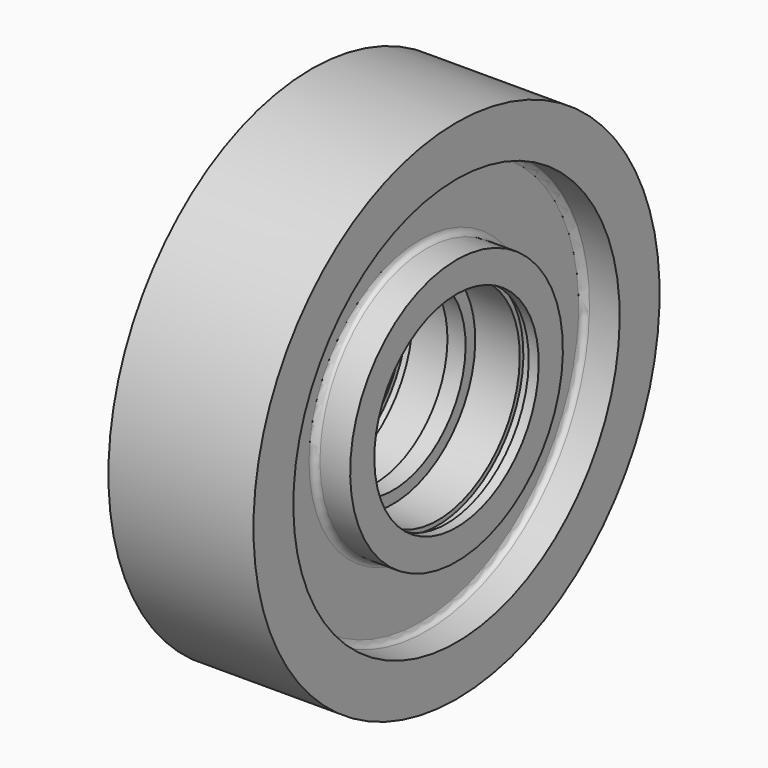
from build123d import *


with BuildPart() as f1:
    # F0 (on Front) → F1 (revolve)
    with BuildSketch(Plane.XZ):
        with BuildLine():
            Line((0, 30), (0, 84))
            Line((0, 84), (-24, 84))
            Line((-24, 84), (-24, 67.5))
            Line((-24, 67.5), (-14, 67.5))
            ThreePointArc((-14, 67.5), (-12.585786, 66.914214), (-12, 65.5))
            Line((-12, 65.5), (-12, 46))
            ThreePointArc((-12, 46), (-12.585786, 44.585786), (-14, 44))
            Line((-14, 44), (-24, 44))
            Line((-24, 44), (-24, 34))
            Line((-24, 34), (-20.694984, 34))
            Line((-20.694984, 34), (-20.694984, 35.5))
            Line((-20.694984, 35.5), (-17.731871, 35.5))
            Line((-17.731871, 35.5), (-17.731871, 34))
            Line((-17.731871, 34), (-3, 34))
            Line((-3, 34), (-3, 30))
            Line((-3, 30), (0, 30))
        make_face()
        with BuildLine():
            Line((24, 84), (0, 84))
            Line((0, 84), (0, 30))
            Line((0, 30), (3, 30))
            Line((3, 30), (3, 34))
            Line((3, 34), (17.731871, 34))
            Line((17.731871, 34), (17.731871, 35.5))
            Line((17.731871, 35.5), (20.694984, 35.5))
            Line((20.694984, 35.5), (20.694984, 34))
            Line((20.694984, 34), (24, 34))
            Line((24, 34), (24, 44))
            Line((24, 44), (14, 44))
            ThreePointArc((14, 44), (12.585786, 44.585786), (12, 46))
            Line((12, 46), (12, 65.5))
            ThreePointArc((12, 65.5), (12.585786, 66.914214), (14, 67.5))
            Line((14, 67.5), (24, 67.5))
            Line((24, 67.5), (24, 84))
        make_face()
    revolve(axis=Axis((-12, 0, 0), (-1, 0, 0)))


solid = f1.part
